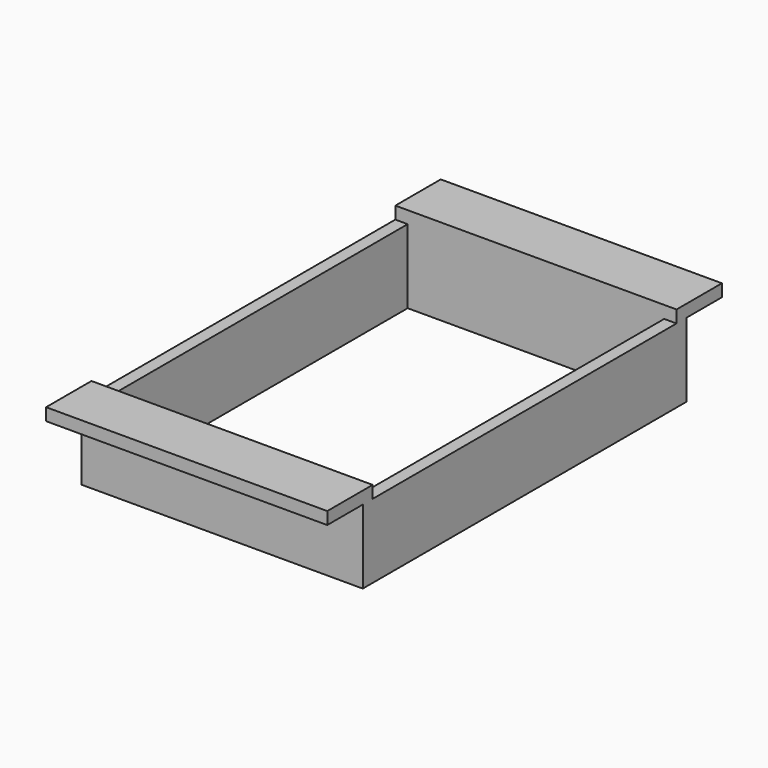
from build123d import *

# Parameters (mm, degrees)
SKETCH001_W   = 114
SKETCH001_H   = 5
SKETCH001_W_2 = 5
SKETCH001_H_2 = 154
PAD001_DEPTH  = 30
SKETCH_W      = 114
SKETCH_H      = 5
PAD_DEPTH     = 5
SKETCH002_W   = 114
SKETCH002_H   = 5
PAD002_DEPTH  = 18
SKETCH003_W   = 114
SKETCH003_H   = 5
PAD003_DEPTH  = 18


with BuildPart() as part:
    # Sketch001 → Pad001 (new body)
    with BuildSketch(Plane.XY):
        with Locations((57, 2.5)):
            Rectangle(SKETCH001_W, SKETCH001_H)
        with Locations((2.5, 82)):
            Rectangle(SKETCH001_W_2, SKETCH001_H_2)
        with Locations((111.5, 82)):
            Rectangle(SKETCH001_W_2, SKETCH001_H_2)
        with Locations((57, 161.5)):
            Rectangle(SKETCH001_W, SKETCH001_H)
    extrude(amount=PAD001_DEPTH)

    # Sketch → Pad (new body)
    with BuildSketch(Plane.XY.offset(30)):
        with Locations((57, 161.5)):
            Rectangle(SKETCH_W, SKETCH_H)
        with Locations((57, 2.5)):
            Rectangle(SKETCH_W, SKETCH_H)
    extrude(amount=PAD_DEPTH)

    # Sketch002 → Pad002 (new body)
    with BuildSketch(Plane.XZ):
        with Locations((57, 32.5)):
            Rectangle(SKETCH002_W, SKETCH002_H)
    extrude(amount=PAD002_DEPTH)

    # Sketch003 → Pad003 (new body)
    with BuildSketch(Plane(origin=(0, 164, 0), x_dir=(-1, 0, 0), z_dir=(0, 1, 0))):
        with Locations((-57, 32.5)):
            Rectangle(SKETCH003_W, SKETCH003_H)
    extrude(amount=PAD003_DEPTH)


solid = part.part
